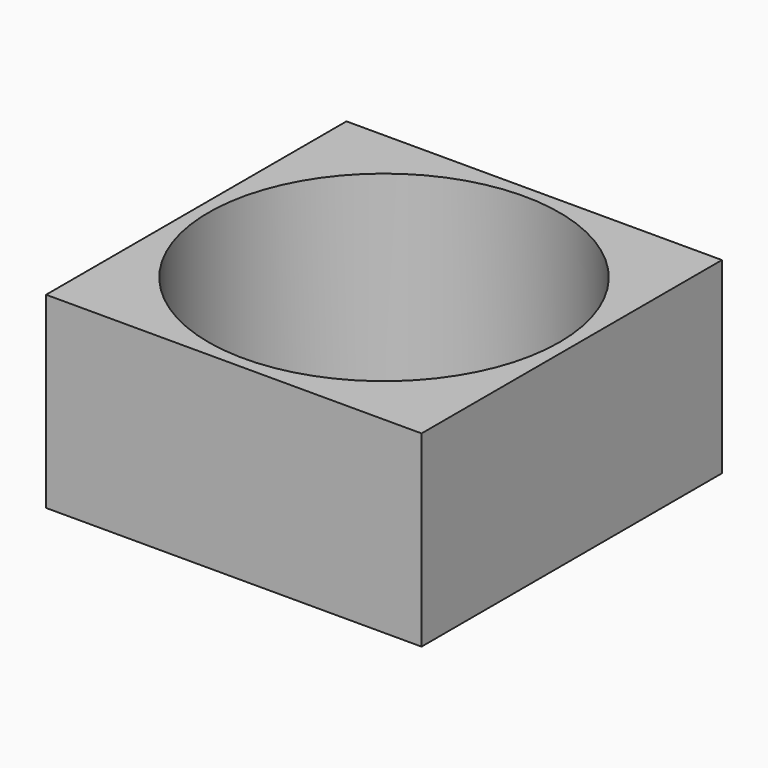
from build123d import *

# Parameters (mm, degrees)
SKETCH_W     = 20
SKETCH_H     = 20
PAD_DEPTH    = 10
SKETCH001_R  = 9.35
POCKET_DEPTH = 10


with BuildPart() as part:
    # Sketch → Pad (new body)
    with BuildSketch(Plane.XY):
        Rectangle(SKETCH_W, SKETCH_H)
    extrude(amount=PAD_DEPTH)

    # Sketch001 (on Face6 of Pad) → Pocket (cut)
    with BuildSketch(Plane.XY.offset(10)):
        Circle(SKETCH001_R)
    extrude(amount=-POCKET_DEPTH, mode=Mode.SUBTRACT)


solid = part.part
